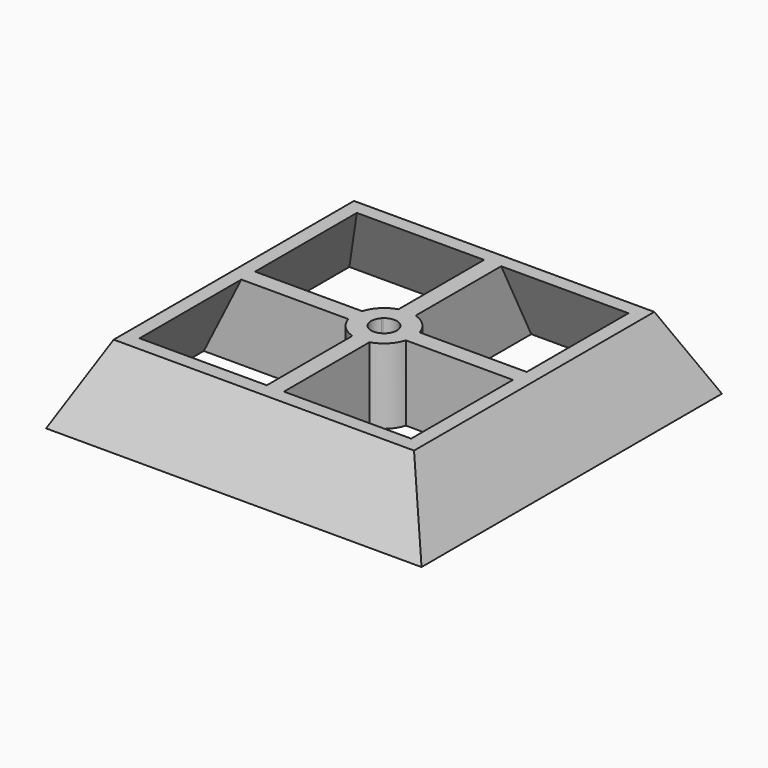
from build123d import *

# Parameters (mm, degrees)
F0_W       = 35
F0_H       = 35
F2_W       = 28
F2_H       = 28
F4_T       = -1.2
F6_DEPTH   = 7
F7_SIZE2   = 3
F7_SIZE    = 6
F7_2_SIZE2 = 3
F7_2_SIZE  = 6
F7_3_SIZE2 = 3
F7_3_SIZE  = 6
F7_4_SIZE2 = 3
F7_4_SIZE  = 6


with BuildPart() as f3:
    # F0 (on Top) → F3 section 0
    with BuildSketch(Plane.XY):
        Rectangle(F0_W, F0_H)
    # F2 (on offset) → F3 section 1
    with BuildSketch(Plane.XY.offset(7)):
        Rectangle(F2_W, F2_H)
    loft()

    # F4
    f4_openings = [f3.faces().sort_by_distance(p)[0] for p in [
        (0, 0, 7),
        (0, 0, 0),
    ]]
    offset(amount=F4_T, openings=f4_openings)


with BuildPart() as f6:
    # F5 (on Top) → F6 (new body, through all)
    with BuildSketch(Plane.XY):
        with BuildLine():
            ThreePointArc((-2.683281573, -0.8), (-2.8, 0), (-2.683281573, 0.8))
            Line((-2.683281573, 0.8), (-16.2, 0.8))
            Line((-16.2, 0.8), (-16.2, -0.8))
            Line((-16.2, -0.8), (-2.683281573, -0.8))
        make_face()
        with BuildLine():
            ThreePointArc((-0.894427191, -0.8), (-1.2, 0), (-0.894427191, 0.8))
            Line((-0.894427191, 0.8), (-2.683281573, 0.8))
            ThreePointArc((-2.683281573, 0.8), (-2.8, 0), (-2.683281573, -0.8))
            Line((-2.683281573, -0.8), (-0.894427191, -0.8))
        make_face()
        with BuildLine():
            ThreePointArc((-0.894427191, 0.8), (-0.8485281374, 0.8485281374), (-0.8, 0.894427191))
            Line((-0.8, 0.894427191), (-0.8, 2.683281573))
            ThreePointArc((-0.8, 2.683281573), (-1.9798989873, 1.9798989873), (-2.683281573, 0.8))
            Line((-2.683281573, 0.8), (-0.894427191, 0.8))
        make_face()
        with BuildLine():
            ThreePointArc((-0.8, 0.894427191), (0, 1.2), (0.8, 0.894427191))
            Line((0.8, 0.894427191), (0.8, 2.683281573))
            ThreePointArc((0.8, 2.683281573), (0, 2.8), (-0.8, 2.683281573))
            Line((-0.8, 2.683281573), (-0.8, 0.894427191))
        make_face()
        with BuildLine():
            ThreePointArc((-0.8, 2.683281573), (0, 2.8), (0.8, 2.683281573))
            Line((0.8, 2.683281573), (0.8, 16.2))
            Line((0.8, 16.2), (-0.8, 16.2))
            Line((-0.8, 16.2), (-0.8, 2.683281573))
        make_face()
        with BuildLine():
            ThreePointArc((0.8, 0.894427191), (0.8485281374, 0.8485281374), (0.894427191, 0.8))
            Line((0.894427191, 0.8), (2.683281573, 0.8))
            ThreePointArc((2.683281573, 0.8), (1.9798989873, 1.9798989873), (0.8, 2.683281573))
            Line((0.8, 2.683281573), (0.8, 0.894427191))
        make_face()
        with BuildLine():
            ThreePointArc((0.894427191, 0.8), (1.1210068308, 0.4281865077), (1.2, 0))
            ThreePointArc((1.2, 0), (1.1210068308, -0.4281865077), (0.894427191, -0.8))
            Line((0.894427191, -0.8), (2.683281573, -0.8))
            ThreePointArc((2.683281573, -0.8), (2.7706667433, -0.40423483), (2.8, 0))
            ThreePointArc((2.8, 0), (2.7706667433, 0.40423483), (2.683281573, 0.8))
            Line((2.683281573, 0.8), (0.894427191, 0.8))
        make_face()
        with BuildLine():
            Line((16.2, 0.8), (2.683281573, 0.8))
            ThreePointArc((2.683281573, 0.8), (2.7706667433, 0.40423483), (2.8, 0))
            ThreePointArc((2.8, 0), (2.7706667433, -0.40423483), (2.683281573, -0.8))
            Line((2.683281573, -0.8), (16.2, -0.8))
            Line((16.2, -0.8), (16.2, 0.8))
        make_face()
        with BuildLine():
            Line((2.683281573, -0.8), (0.894427191, -0.8))
            ThreePointArc((0.894427191, -0.8), (0.8485281374, -0.8485281374), (0.8, -0.894427191))
            Line((0.8, -0.894427191), (0.8, -2.683281573))
            ThreePointArc((0.8, -2.683281573), (1.9798989873, -1.9798989873), (2.683281573, -0.8))
        make_face()
        with BuildLine():
            Line((-0.8, -2.683281573), (-0.8, -0.894427191))
            ThreePointArc((-0.8, -0.894427191), (-0.8485281374, -0.8485281374), (-0.894427191, -0.8))
            Line((-0.894427191, -0.8), (-2.683281573, -0.8))
            ThreePointArc((-2.683281573, -0.8), (-1.9798989873, -1.9798989873), (-0.8, -2.683281573))
        make_face()
        with BuildLine():
            Line((0.8, -2.683281573), (0.8, -0.894427191))
            ThreePointArc((0.8, -0.894427191), (0, -1.2), (-0.8, -0.894427191))
            Line((-0.8, -0.894427191), (-0.8, -2.683281573))
            ThreePointArc((-0.8, -2.683281573), (0, -2.8), (0.8, -2.683281573))
        make_face()
        with BuildLine():
            Line((0.8, -16.2), (0.8, -2.683281573))
            ThreePointArc((0.8, -2.683281573), (0, -2.8), (-0.8, -2.683281573))
            Line((-0.8, -2.683281573), (-0.8, -16.2))
            Line((-0.8, -16.2), (0.8, -16.2))
        make_face()
    extrude(amount=F6_DEPTH)

    # F7
    f7_edges = [f6.edges().sort_by_distance(p)[0] for p in [
        (-16.2, 0, 7),
    ]]
    f7_side = f6.faces().sort_by_distance((-16.2, 0, 3.5))[0]
    chamfer(f7_edges, length=F7_SIZE, length2=F7_SIZE2, reference=f7_side)

    # F7#2
    f7_2_edges = [f6.edges().sort_by_distance(p)[0] for p in [
        (0, 16.2, 7),
    ]]
    f7_2_side = f6.faces().sort_by_distance((0, 16.2, 3.5))[0]
    chamfer(f7_2_edges, length=F7_2_SIZE, length2=F7_2_SIZE2, reference=f7_2_side)

    # F7#3
    f7_3_edges = [f6.edges().sort_by_distance(p)[0] for p in [
        (16.2, 0, 7),
    ]]
    f7_3_side = f6.faces().sort_by_distance((16.2, 0, 3.5))[0]
    chamfer(f7_3_edges, length=F7_3_SIZE, length2=F7_3_SIZE2, reference=f7_3_side)

    # F7#4
    f7_4_edges = [f6.edges().sort_by_distance(p)[0] for p in [
        (0, -16.2, 7),
    ]]
    f7_4_side = f6.faces().sort_by_distance((0, -16.2, 3.5))[0]
    chamfer(f7_4_edges, length=F7_4_SIZE, length2=F7_4_SIZE2, reference=f7_4_side)


with BuildPart() as f3_1:
    add(f3.part)

    # F8: union F6
    add(f6.part)


solid = f3_1.part
